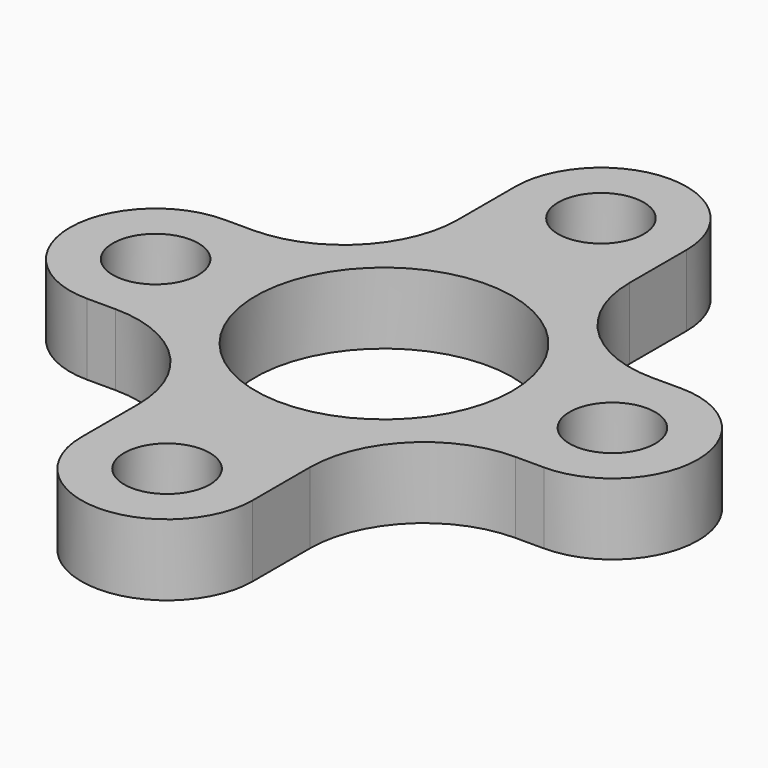
from build123d import *

# Parameters (mm, degrees)
F0_R     = 1.5
F0_R_2   = 4.5
F1_DEPTH = 2.5


with BuildPart() as f1:
    # F0 (on Top) → F1 (new body)
    with BuildSketch(Plane.XY):
        with BuildLine():
            ThreePointArc((-8.332531, 2.986763), (-11.332531, -0.013237), (-8.332531, -3.013237))
            Line((-8.332531, -3.013237), (-7.332531, -3.013237))
            ThreePointArc((-7.332531, -3.013237), (-4.504103, -4.184809), (-3.332531, -7.013237))
            Line((-3.332531, -7.013237), (-3.332531, -9.513237))
            ThreePointArc((-3.332531, -9.513237), (-0.332531, -12.513237), (2.667469, -9.513237))
            Line((2.667469, -9.513237), (2.667469, -7.013237))
            ThreePointArc((2.667469, -7.013237), (3.839042, -4.184809), (6.667469, -3.013237))
            Line((6.667469, -3.013237), (7.667469, -3.013237))
            ThreePointArc((7.667469, -3.013237), (10.667469, -0.013237), (7.667469, 2.986763))
            Line((7.667469, 2.986763), (6.667469, 2.986763))
            ThreePointArc((6.667469, 2.986763), (3.839042, 4.158336), (2.667469, 6.986763))
            Line((2.667469, 6.986763), (2.667469, 9.486763))
            ThreePointArc((2.667469, 9.486763), (-0.332531, 12.486763), (-3.332531, 9.486763))
            Line((-3.332531, 9.486763), (-3.332531, 6.986763))
            ThreePointArc((-3.332531, 6.986763), (-4.504103, 4.158336), (-7.332531, 2.986763))
            Line((-7.332531, 2.986763), (-8.332531, 2.986763))
        make_face()
        with Locations((-0.332531, -9.513237)):
            Circle(F0_R, mode=Mode.SUBTRACT)
        with Locations((-8.332531, -0.013237)):
            Circle(F0_R, mode=Mode.SUBTRACT)
        with Locations((-0.332531, -0.013237)):
            Circle(F0_R_2, mode=Mode.SUBTRACT)
        with Locations((7.667469, -0.013237)):
            Circle(F0_R, mode=Mode.SUBTRACT)
        with Locations((-0.332531, 9.486763)):
            Circle(F0_R, mode=Mode.SUBTRACT)
    extrude(amount=F1_DEPTH)


solid = f1.part
